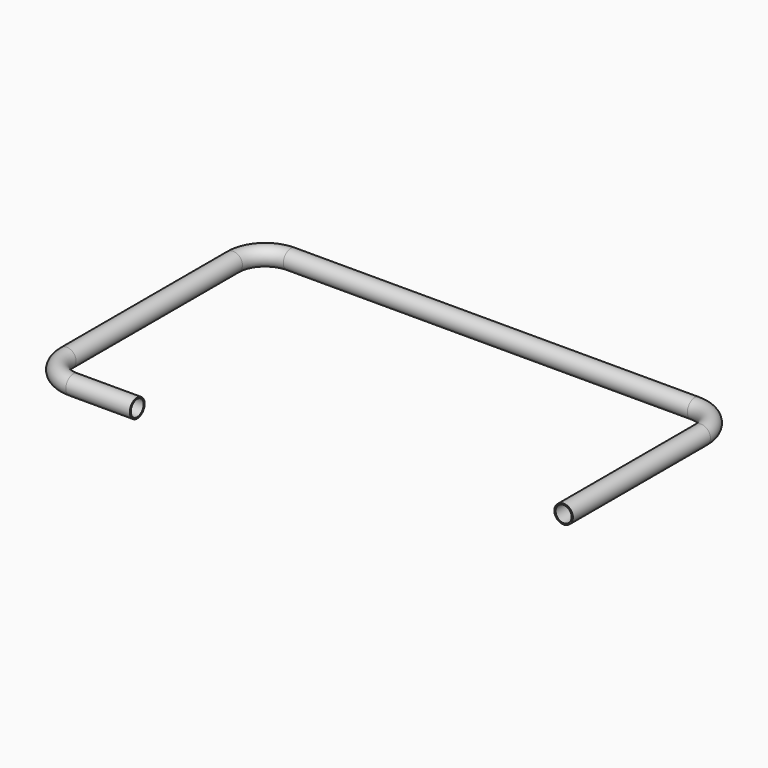
from build123d import *

# Parameters (mm, degrees)
F1_R   = 1.8415
F1_R_2 = 1.5875


with BuildPart() as f2:
    # F2: sweep along a path in F0
    with BuildLine(Plane.XY) as f2_path:
        Line((0, 0), (0, 34.13125))
        ThreePointArc((0, 34.13125), (-1.859872, 38.621378), (-6.35, 40.48125))
        Line((-6.35, 40.48125), (-86.568178, 40.48125))
        ThreePointArc((-86.568178, 40.48125), (-91.058306, 38.621378), (-92.918178, 34.13125))
        Line((-92.918178, 34.13125), (-92.918178, -7.14375))
        ThreePointArc((-92.918178, -7.14375), (-91.058306, -11.633878), (-86.568178, -13.49375))
        Line((-86.568178, -13.49375), (-73.868178, -13.49375))
    # F1 (on Front) → F2 (sweep)
    with BuildSketch(Plane.XZ):
        Circle(F1_R)
        Circle(F1_R_2, mode=Mode.SUBTRACT)
    sweep(path=f2_path.line)


solid = f2.part
